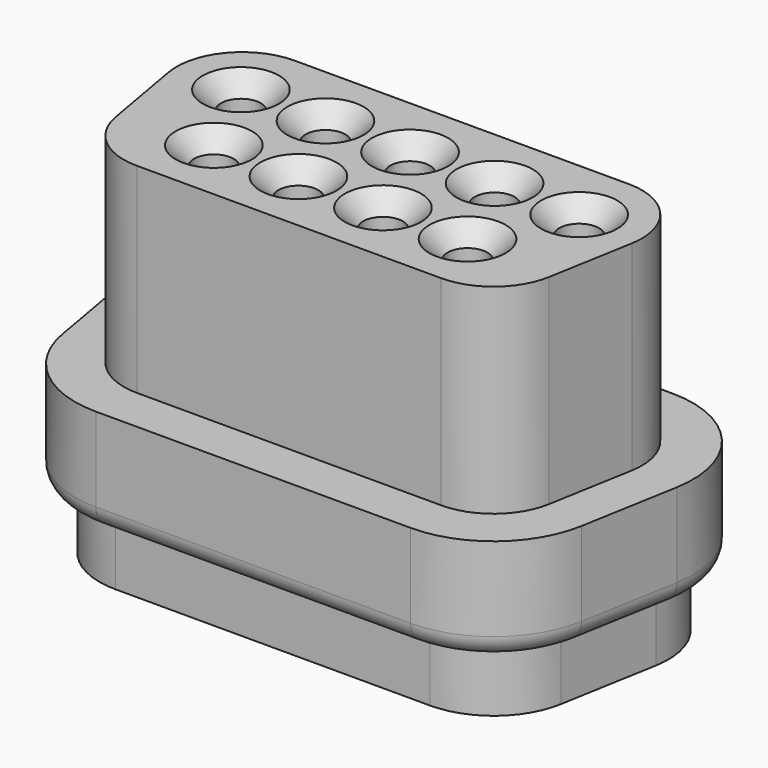
from build123d import *

# Parameters (mm, degrees)
ARRAY008_X_COUNT = 5
ARRAY008_X_PITCH = 2.77
ARRAY007_X_COUNT = 4
ARRAY007_X_PITCH = 2.77
ARRAY007_Y_COUNT = 2
ARRAY007_Y_PITCH = 100
PAD004_DEPTH     = 3.45
PAD005_DEPTH     = 2
FILLET007_R      = 0.7
PAD008_DEPTH     = 6.55
SKETCH016_R      = 0.7
PAD006_DEPTH     = 0.5
ARRAY_X_COUNT    = 5
ARRAY_X_PITCH    = 2.77
SKETCH017_R      = 0.7
PAD007_DEPTH     = 0.5
ARRAY001_X_COUNT = 4
ARRAY001_X_PITCH = 2.77


with BuildPart() as array008:
    # Sketch025 → Revolution008 (revolve)
    with BuildSketch(Plane.XZ):
        with BuildLine():
            Line((0, 6.65), (0, -10.75))
            ThreePointArc((0, -10.75), (0.212132, -10.662132), (0.3, -10.45))
            Line((0.3, -10.45), (0.3, -2))
            Line((0.3, -2), (0.65, -2))
            Line((0.65, -2), (0.65, 5.95))
            Line((0.65, 5.95), (1.35, 6.65))
            Line((1.35, 6.65), (0, 6.65))
        make_face()
    revolve(axis=Axis((0, 0, 0), (0, 0, 1)))


with BuildPart() as array008_1:
    # Body015 placement: moved
    add(array008.part.moved(Location((-5.54, 1.42, 0))))

    # Array008 X: Array008 ×5


with BuildPart() as array008_2:
    add(array008_1.part)
    with Locations(*[(i * ARRAY008_X_PITCH, 0, 0) for i in range(1, ARRAY008_X_COUNT)]):
        add(array008_1.part)


with BuildPart() as fusion003:
    # Sketch024 → Revolution007 (revolve)
    with BuildSketch(Plane.XZ):
        with BuildLine():
            Line((0, 6.65), (0, -10.75))
            ThreePointArc((0, -10.75), (0.212132, -10.662132), (0.3, -10.45))
            Line((0.3, -10.45), (0.3, -2))
            Line((0.3, -2), (0.65, -2))
            Line((0.65, -2), (0.65, 5.95))
            Line((0.65, 5.95), (1.35, 6.65))
            Line((1.35, 6.65), (0, 6.65))
        make_face()
    revolve(axis=Axis((0, 0, 0), (0, 0, 1)))


with BuildPart() as fusion003_1:
    # Body014 placement: moved
    add(fusion003.part.moved(Location((-4.155, -1.42, 0))))

    # Array007 X: Fusion003 ×4


with BuildPart() as fusion003_2:
    add(fusion003_1.part)
    with Locations(*[(i * ARRAY007_X_PITCH, 0, 0) for i in range(1, ARRAY007_X_COUNT)]):
        add(fusion003_1.part)

    # Array007 Y: Fusion003 ×2


with BuildPart() as fusion003_3:
    add(fusion003_2.part)
    with Locations(*[(0, i * ARRAY007_Y_PITCH, 0) for i in range(1, ARRAY007_Y_COUNT)]):
        add(fusion003_2.part)

    # Fusion003: union Array008
    add(array008_2.part)


with BuildPart() as body006:
    # Sketch014 → Pad004 (new body)
    with BuildSketch(Plane.XY):
        with BuildLine():
            Line((-5.72, 5), (5.72, 5))
            ThreePointArc((9.068211, 1.008831), (8.324801, 3.78518), (5.72, 5))
            Line((9.068211, 1.008831), (8.503211, -2.191169))
            ThreePointArc((5.155, -5), (7.34018, -4.204801), (8.503211, -2.191169))
            Line((5.155, -5), (-5.155, -5))
            ThreePointArc((-8.503211, -2.191169), (-7.34018, -4.204801), (-5.155, -5))
            Line((-8.503211, -2.191169), (-9.068211, 1.008831))
            ThreePointArc((-5.72, 5), (-8.324801, 3.78518), (-9.068211, 1.008831))
        make_face()
    extrude(amount=-PAD004_DEPTH)

    # Sketch015 (on Face10 of Pad004) → Pad005 (join)
    with BuildSketch(Plane(origin=(0, 0, -3.45), x_dir=(1, 0, 0), z_dir=(0, 0, -1))):
        with BuildLine():
            Line((-5.155, 4.2), (5.155, 4.2))
            ThreePointArc((7.715397, 2.05207), (6.82602, 3.591906), (5.155, 4.2))
            Line((7.715397, 2.05207), (8.280397, -1.14793))
            ThreePointArc((5.72, -4.2), (7.711906, -3.27102), (8.280397, -1.14793))
            Line((5.72, -4.2), (-5.72, -4.2))
            ThreePointArc((-8.280397, -1.14793), (-7.711906, -3.27102), (-5.72, -4.2))
            Line((-8.280397, -1.14793), (-7.715397, 2.05207))
            ThreePointArc((-5.155, 4.2), (-6.82602, 3.591906), (-7.715397, 2.05207))
        make_face()
    extrude(amount=PAD005_DEPTH)

    # Fillet007
    fillet007_edges = [body006.edges().sort_by_distance(p)[0] for p in [
        (-8.785711, -0.591169, -3.45),
    ]]
    fillet(fillet007_edges, radius=FILLET007_R)

    # Sketch022 (on Face4 of Fillet007) → Pad008 (join)
    with BuildSketch(Plane.XY):
        with BuildLine():
            Line((-5.475, 3.535), (5.475, 3.535))
            ThreePointArc((7.587437, 1.017664), (7.11812, 2.768834), (5.475, 3.535))
            Line((7.587437, 1.017664), (7.097437, -1.762336))
            ThreePointArc((4.985, -3.535), (6.363834, -3.03312), (7.097437, -1.762336))
            Line((4.985, -3.535), (-4.985, -3.535))
            ThreePointArc((-7.097437, -1.762336), (-6.363834, -3.03312), (-4.985, -3.535))
            Line((-7.097437, -1.762336), (-7.587437, 1.017664))
            ThreePointArc((-5.475, 3.535), (-7.11812, 2.768834), (-7.587437, 1.017664))
        make_face()
    extrude(amount=PAD008_DEPTH)


with BuildPart() as array:
    # Sketch016 → Pad006 (new body)
    with BuildSketch(Plane.XY):
        Circle(SKETCH016_R)
    extrude(amount=-PAD006_DEPTH)


with BuildPart() as array_1:
    # Body007 placement: moved
    add(array.part.moved(Location((-5.54, 1.42, -5.45))))

    # Array X: Array ×5


with BuildPart() as array_2:
    add(array_1.part)
    with Locations(*[(i * ARRAY_X_PITCH, 0, 0) for i in range(1, ARRAY_X_COUNT)]):
        add(array_1.part)


with BuildPart() as cut:
    # Sketch017 → Pad007 (new body)
    with BuildSketch(Plane.XY):
        Circle(SKETCH017_R)
    extrude(amount=-PAD007_DEPTH)


with BuildPart() as cut_1:
    # Body008 placement: moved
    add(cut.part.moved(Location((-4.155, -1.42, -5.45))))

    # Array001 X: Cut ×4


with BuildPart() as cut_2:
    add(cut_1.part)
    with Locations(*[(i * ARRAY001_X_PITCH, 0, 0) for i in range(1, ARRAY001_X_COUNT)]):
        add(cut_1.part)

    # Fusion: union Array
    add(array_2.part)

    # Fusion002: union Body006
    add(body006.part)

    # Cut: cut Fusion003
    add(fusion003_3.part, mode=Mode.SUBTRACT)


solid = cut_2.part
